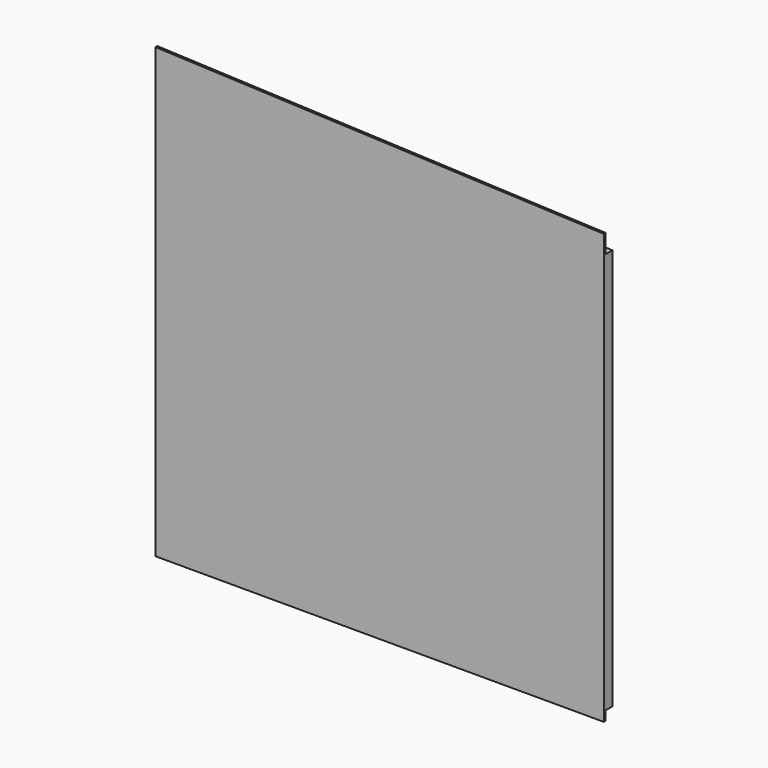
from build123d import *

# Parameters (mm, degrees)
F1_DEPTH = 45
F0_W     = 2400
F0_H     = 50
F2_DEPTH = 12


with BuildPart() as f1:
    # F0 (on Front) → F1 (new body)
    with BuildSketch(Plane.XZ):
        Polygon((1155, 981.835954), (1200, 979.960954), (1200, 1025), (-1200, 1125), (-1200, 1079.960954), (-1155, 1078.085954), (-622.5, 1055.898454), (-577.5, 1054.023454), (-22.5, 1030.898454), (22.5, 1029.023454), (577.5, 1005.898454), (622.5, 1004.023454), align=None)
        Polygon((-1200, 1079.960954), (-1200, -1080), (-1155, -1080), (-1155, 1078.085954), align=None)
        Polygon((-622.5, 1055.898454), (-622.5, -1080), (-577.5, -1080), (-577.5, 1054.023454), align=None)
        Polygon((-22.5, -1080), (22.5, -1080), (22.5, 1029.023454), (-22.5, 1030.898454), align=None)
        Polygon((577.5, -1080), (622.5, -1080), (622.5, 1004.023454), (577.5, 1005.898454), align=None)
        Polygon((1155, -1080), (1200, -1080), (1200, 979.960954), (1155, 981.835954), align=None)
        Polygon((-1200, -1125), (1200, -1125), (1200, -1080), (1155, -1080), (622.5, -1080), (577.5, -1080), (22.5, -1080), (-22.5, -1080), (-577.5, -1080), (-622.5, -1080), (-1155, -1080), (-1200, -1080), align=None)
    extrude(amount=-F1_DEPTH)

    # F0 (on Front) → F2 (join)
    with BuildSketch(Plane.XZ):
        Polygon((-1155, 1078.085954), (-1155, -1080), (-622.5, -1080), (-622.5, 1055.898454), align=None)
        Polygon((-577.5, 1054.023454), (-577.5, -1080), (-22.5, -1080), (-22.5, 1030.898454), align=None)
        Polygon((22.5, -1080), (577.5, -1080), (577.5, 1005.898454), (22.5, 1029.023454), align=None)
        Polygon((622.5, -1080), (1155, -1080), (1155, 981.835954), (622.5, 1004.023454), align=None)
        Polygon((-1200, 1125), (1200, 1025), (1200, 1125), (-1200, 1225), align=None)
        Polygon((1155, 981.835954), (1200, 979.960954), (1200, 1025), (-1200, 1125), (-1200, 1079.960954), (-1155, 1078.085954), (-622.5, 1055.898454), (-577.5, 1054.023454), (-22.5, 1030.898454), (22.5, 1029.023454), (577.5, 1005.898454), (622.5, 1004.023454), align=None)
        Polygon((-1200, 1079.960954), (-1200, -1080), (-1155, -1080), (-1155, 1078.085954), align=None)
        Polygon((-622.5, 1055.898454), (-622.5, -1080), (-577.5, -1080), (-577.5, 1054.023454), align=None)
        Polygon((-22.5, -1080), (22.5, -1080), (22.5, 1029.023454), (-22.5, 1030.898454), align=None)
        Polygon((577.5, -1080), (622.5, -1080), (622.5, 1004.023454), (577.5, 1005.898454), align=None)
        Polygon((1155, -1080), (1200, -1080), (1200, 979.960954), (1155, 981.835954), align=None)
        Polygon((-1200, -1125), (1200, -1125), (1200, -1080), (1155, -1080), (622.5, -1080), (577.5, -1080), (22.5, -1080), (-22.5, -1080), (-577.5, -1080), (-622.5, -1080), (-1155, -1080), (-1200, -1080), align=None)
        with Locations((0, -1150)):
            Rectangle(F0_W, F0_H)
    extrude(amount=F2_DEPTH)


solid = f1.part
